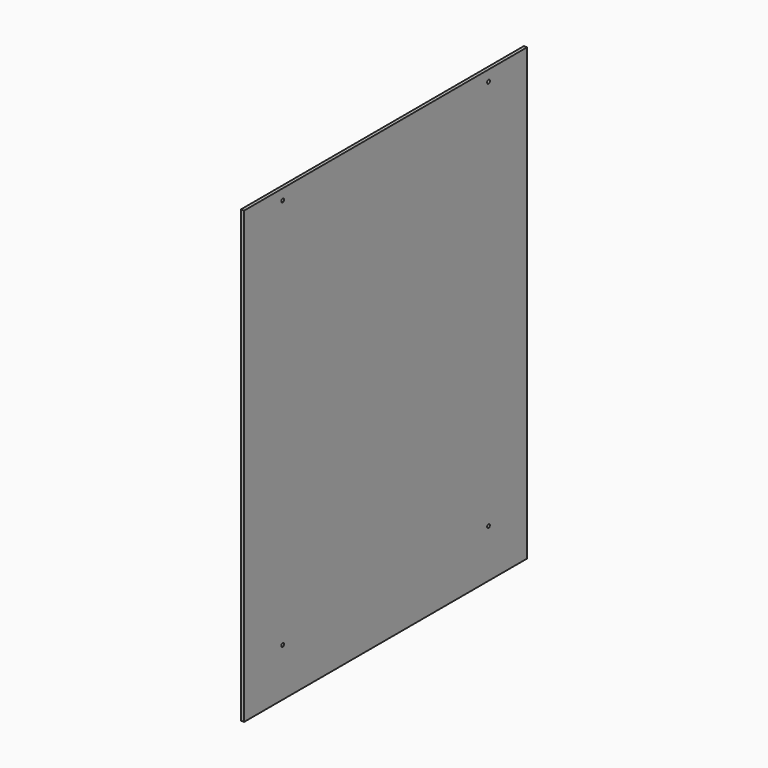
from build123d import *

# Parameters (mm, degrees)
SKETCH_W     = 330
SKETCH_H     = 420
PAD_DEPTH    = 3
SKETCH001_R  = 1.6
POCKET_DEPTH = 3.001


with BuildPart() as part:
    # Sketch → Pad (new body)
    with BuildSketch(Plane.YZ):
        with Locations((165, 210)):
            Rectangle(SKETCH_W, SKETCH_H)
    extrude(amount=PAD_DEPTH)

    # Sketch001 (on Face6 of Pad) → Pocket (cut, through all)
    with BuildSketch(Plane.YZ.offset(3)):
        with Locations((45, 410)):
            Circle(SKETCH001_R)
        with Locations((285, 410)):
            Circle(SKETCH001_R)
        with Locations((45, 45)):
            Circle(SKETCH001_R)
        with Locations((285, 45)):
            Circle(SKETCH001_R)
    extrude(amount=-POCKET_DEPTH, mode=Mode.SUBTRACT)


solid = part.part
